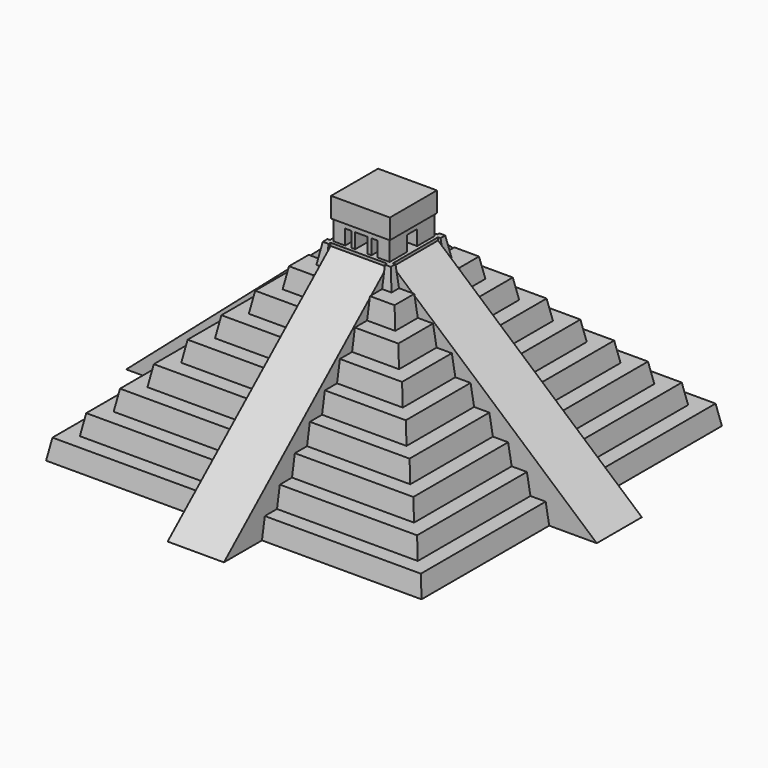
from build123d import *

# Parameters (mm, degrees)
F0_W      = 300
F0_H      = 300
F1_DEPTH  = 16
F1_TAPER  = 10
F2_W      = 270
F2_H      = 270
F3_DEPTH  = 16
F3_TAPER  = 10
F4_W      = 240
F4_H      = 240
F5_DEPTH  = 16
F5_TAPER  = 10
F6_W      = 210
F6_H      = 210
F7_DEPTH  = 16
F7_TAPER  = 10
F8_W      = 180
F8_H      = 180
F9_DEPTH  = 16
F9_TAPER  = 10
F10_W     = 150
F10_H     = 150
F11_DEPTH = 16
F11_TAPER = 10
F12_W     = 120
F12_H     = 120
F13_DEPTH = 16
F13_TAPER = 10
F14_W     = 90
F14_H     = 90
F15_DEPTH = 16
F15_TAPER = 10
F16_W     = 60
F16_H     = 60
F17_DEPTH = 16
F17_TAPER = 10
F18_W     = 127.5
F18_H     = 45
F18_W_2   = 45
F18_H_2   = 127.5
F19_DEPTH = 144.001
F24_W     = 215.8472527365
F24_H     = 45
F25_DEPTH = 25
F35_DEPTH = 172.501
F36_W     = 45
F36_H     = 215.8472527365
F37_DEPTH = 25
F39_DEPTH = 172.501
F40_W     = 45
F40_H     = 16.4101098933
F41_DEPTH = 144.001
F42_W     = 45
F42_H     = 215.8472527365
F43_DEPTH = 25
F44_W     = 215.8472527365
F44_H     = 45
F45_DEPTH = 25
F47_DEPTH = 210.501
F49_DEPTH = 210.501
F51_DEPTH = 144.001
F52_W     = 2.6628427036
F52_H     = 45
F53_DEPTH = 144.001
F54_W     = 45
F54_H     = 2.6628427036
F54_H_2   = 45
F54_W_2   = 2.6628427036
F55_DEPTH = 144
F57_W     = 45
F57_H     = 45
F58_DEPTH = 16
F59_W     = 47
F59_H     = 47
F60_DEPTH = 16
F61_W     = 10
F61_H     = 12
F62_DEPTH = 210.501
F61_W_2   = 5
F63_DEPTH = 10
F64_W     = 10
F64_H     = 12
F65_DEPTH = 210.501


with BuildPart() as f1:
    # F0 (on Top) → F1 (new body)
    with BuildSketch(Plane.XY):
        Rectangle(F0_W, F0_H)
    extrude(amount=F1_DEPTH, taper=F1_TAPER)

    # F2 (on face) → F3 (join)
    with BuildSketch(Plane.XY.offset(16)):
        Rectangle(F2_W, F2_H)
    extrude(amount=F3_DEPTH, taper=F3_TAPER)

    # F4 (on face) → F5 (join)
    with BuildSketch(Plane.XY.offset(32)):
        Rectangle(F4_W, F4_H)
    extrude(amount=F5_DEPTH, taper=F5_TAPER)

    # F6 (on face) → F7 (join)
    with BuildSketch(Plane.XY.offset(48)):
        Rectangle(F6_W, F6_H)
    extrude(amount=F7_DEPTH, taper=F7_TAPER)

    # F8 (on face) → F9 (join)
    with BuildSketch(Plane.XY.offset(64)):
        Rectangle(F8_W, F8_H)
    extrude(amount=F9_DEPTH, taper=F9_TAPER)

    # F10 (on face) → F11 (join)
    with BuildSketch(Plane.XY.offset(80)):
        Rectangle(F10_W, F10_H)
    extrude(amount=F11_DEPTH, taper=F11_TAPER)

    # F12 (on face) → F13 (join)
    with BuildSketch(Plane.XY.offset(96)):
        Rectangle(F12_W, F12_H)
    extrude(amount=F13_DEPTH, taper=F13_TAPER)

    # F14 (on face) → F15 (join)
    with BuildSketch(Plane.XY.offset(112)):
        Rectangle(F14_W, F14_H)
    extrude(amount=F15_DEPTH, taper=F15_TAPER)

    # F16 (on face) → F17 (join)
    with BuildSketch(Plane.XY.offset(128)):
        Rectangle(F16_W, F16_H)
    extrude(amount=F17_DEPTH, taper=F17_TAPER)

    # F18 (on face) → F19 (cut, through all)
    with BuildSketch(Plane.XY.offset(144)):
        with Locations((86.25, 0)):
            Rectangle(F18_W, F18_H)
        Rectangle(F18_W_2, F18_H)
        with Locations((0, 86.25)):
            Rectangle(F18_W_2, F18_H_2)
        with Locations((-86.25, 0)):
            Rectangle(F18_W, F18_H)
        with Locations((0, -86.25)):
            Rectangle(F18_W_2, F18_H_2)
    extrude(amount=-F19_DEPTH, mode=Mode.SUBTRACT)


with BuildPart() as f25:
    # F24 (on 3pt) → F25 (new body)
    with BuildSketch(Plane(origin=(81.002945378, 0, 93.0971351393), x_dir=(0.7544092187, 0, -0.6564043957), z_dir=(0.6564043957, 0, 0.7544092187))):
        with Locations((33.9053067481, 0)):
            Rectangle(F24_W, F24_H)
    extrude(amount=-F25_DEPTH)

    # F34 (on face) → F35 (cut, through all)
    with BuildSketch(Plane(origin=(0, 22.5, 0), x_dir=(-1, 0, 0), z_dir=(0, 1, 0))):
        Polygon((-8.7527328104, 122.822855035), (-22.5, 138.6226655897), (-22.5, 110.8614866041), align=None)
        Polygon((-171.5898901067, -18.8602304676), (-149.9137224513, 0), (-188, 0), align=None)
    extrude(amount=-F35_DEPTH, mode=Mode.SUBTRACT)

    # F52 (on face) → F53 (cut, through all)
    with BuildSketch(Plane.XY.offset(144)):
        with Locations((23.8314213518, 0)):
            Rectangle(F52_W, F52_H)
    extrude(amount=-F53_DEPTH, mode=Mode.SUBTRACT)


with BuildPart() as f37:
    # F36 (on 3pt) → F37 (new body)
    with BuildSketch(Plane(origin=(0, 81.002945378, 93.0971351393), x_dir=(1, 0, 0), z_dir=(0, 0.6564043957, 0.7544092187))):
        with Locations((0, 33.9053067481)):
            Rectangle(F36_W, F36_H)
    extrude(amount=-F37_DEPTH)

    # F38 (on face) → F39 (cut, through all)
    with BuildSketch(Plane.YZ.offset(22.5)):
        Polygon((171.5898901067, -18.8602304676), (188, 0), (149.9137224513, 0), align=None)
    extrude(amount=-F39_DEPTH, mode=Mode.SUBTRACT)

    # F40 (on face) → F41 (cut, through all)
    with BuildSketch(Plane.XY.offset(144)):
        with Locations((0, 16.957787757)):
            Rectangle(F40_W, F40_H)
    extrude(amount=-F41_DEPTH, mode=Mode.SUBTRACT)


with BuildPart() as f43:
    # F42 (on 3pt) → F43 (new body)
    with BuildSketch(Plane(origin=(0, -81.002945378, 93.0971351393), x_dir=(1, 0, 0), z_dir=(0, 0.6564043957, -0.7544092187))):
        with Locations((0, 33.9053067481)):
            Rectangle(F42_W, F42_H)
    extrude(amount=F43_DEPTH)

    # F46 (on face) → F47 (cut, through all)
    with BuildSketch(Plane(origin=(-22.5, 0, 0), x_dir=(0, -1, 0), z_dir=(-1, 0, 0))):
        Polygon((171.5898901067, -18.8602304676), (188, 0), (149.9137224513, 0), align=None)
    extrude(amount=-F47_DEPTH, mode=Mode.SUBTRACT)


with BuildPart() as f45:
    # F44 (on 3pt) → F45 (new body)
    with BuildSketch(Plane(origin=(-81.002945378, 0, 93.0971351393), x_dir=(0.7544092187, 0, 0.6564043957), z_dir=(0.6564043957, 0, -0.7544092187))):
        with Locations((-33.9053067481, 0)):
            Rectangle(F44_W, F44_H)
    extrude(amount=F45_DEPTH)

    # F48 (on face) → F49 (cut, through all)
    with BuildSketch(Plane(origin=(0, 22.5, 0), x_dir=(-1, 0, 0), z_dir=(0, 1, 0))):
        Polygon((171.5898901067, -18.8602304676), (188, 0), (149.9137224513, 0), align=None)
    extrude(amount=-F49_DEPTH, mode=Mode.SUBTRACT)


with BuildPart() as f51_tool:
    # F50 (on face) → F51 (new body, through all)
    with BuildSketch(Plane.XY.offset(144)):
        Polygon((-22.5, -25.1628427036), (22.5, -25.1628427036), (22.5, -8.7527328104), (-8.7527328104, -8.7527328104), (-8.7527328104, 22.5), (-25.1628427036, 22.5), (-25.1628427036, -22.5), (-22.5, -22.5), align=None)
    extrude(amount=-F51_DEPTH)


with BuildPart() as f43_1:
    add(f43.part)

    # F51: cut by f51_tool
    add(f51_tool.part, mode=Mode.SUBTRACT)


with BuildPart() as f45_1:
    add(f45.part)

    # F51: cut by f51_tool
    add(f51_tool.part, mode=Mode.SUBTRACT)


with BuildPart() as f55:
    # F54 (on Top) → F55 (new body)
    with BuildSketch(Plane.XY):
        with Locations((0, -23.8314213518)):
            Rectangle(F54_W, F54_H)
        Rectangle(F54_W, F54_H_2)
        with Locations((23.8314213518, 0)):
            Rectangle(F54_W_2, F54_H_2)
        with Locations((-23.8314213518, 0)):
            Rectangle(F54_W_2, F54_H_2)
        with Locations((0, 23.8314213518)):
            Rectangle(F54_W, F54_H)
    extrude(amount=F55_DEPTH)


with BuildPart() as f1_1:
    add(f1.part)

    # F56: union F25, F43, F45, F55, F37
    add(f25.part)
    add(f43_1.part)
    add(f45_1.part)
    add(f55.part)
    add(f37.part)

    # F57 (on face) → F58 (join)
    with BuildSketch(Plane.XY.offset(144)):
        Rectangle(F57_W, F57_H)
    extrude(amount=F58_DEPTH)

    # F59 (on face) → F60 (join)
    with BuildSketch(Plane.XY.offset(160)):
        Rectangle(F59_W, F59_H)
    extrude(amount=F60_DEPTH)

    # F61 (on face) → F62 (cut, through all)
    with BuildSketch(Plane.XZ.offset(22.5)):
        with Locations((0, 150)):
            Rectangle(F61_W, F61_H)
    extrude(amount=-F62_DEPTH, mode=Mode.SUBTRACT)

    # F61 (on face) → F63 (cut)
    with BuildSketch(Plane.XZ.offset(22.5)):
        with Locations((-10.5, 150)):
            Rectangle(F61_W_2, F61_H)
        with Locations((10.5, 150)):
            Rectangle(F61_W_2, F61_H)
    extrude(amount=-F63_DEPTH, mode=Mode.SUBTRACT)

    # F64 (on face) → F65 (cut, through all)
    with BuildSketch(Plane(origin=(-22.5, 0, 0), x_dir=(0, -1, 0), z_dir=(-1, 0, 0))):
        with Locations((0, 150)):
            Rectangle(F64_W, F64_H)
    extrude(amount=-F65_DEPTH, mode=Mode.SUBTRACT)


solid = f1_1.part
